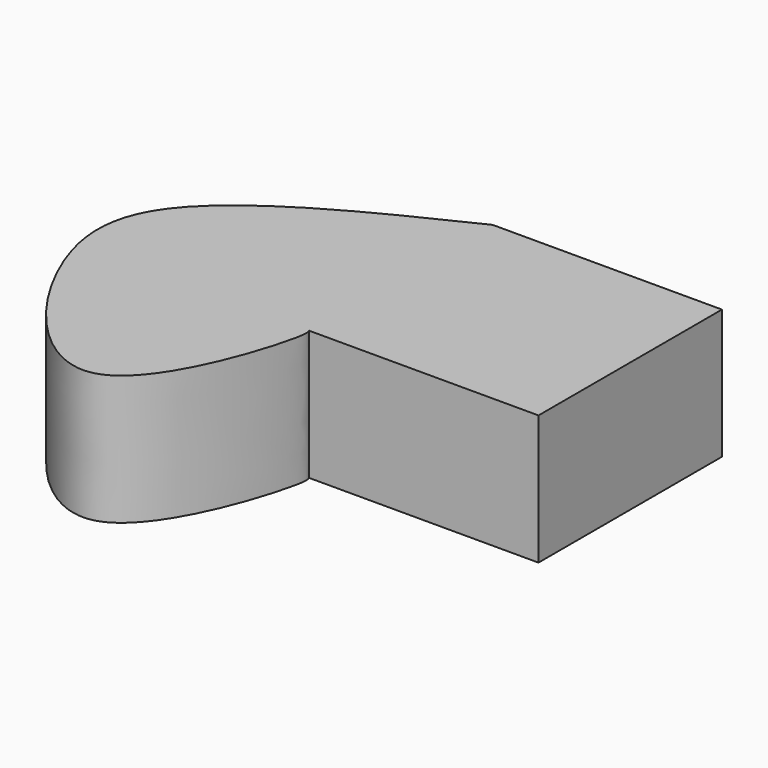
from build123d import *

# Parameters (mm, degrees)
F1_DEPTH = 25.4


with BuildPart() as f1:
    # F0 (on Top) → F1 (new body)
    with BuildSketch(Plane.XY):
        with BuildLine():
            add(Edge.make_bspline(
                [(0, 44.9314303696), (-13.9395273288, 38.2196594177), (-38.5582283902, 26.3659517015), (-53.4646951406, 1.7866835165), (-14.4290656184, -52.5995921943), (0.7194193789, -2.438342556), (0.1237199723, -0.4193265881), (0, 0)],
                knots=[0, 0, 0, 0, 0.2573110785, 0.4544389757, 0.7115619799, 0.9400947131, 1, 1, 1, 1], degree=3))
            Line((0, 0), (44.9314303696, 0))
            Line((44.9314303696, 0), (44.9314303696, 44.9314303696))
            Line((44.9314303696, 44.9314303696), (0, 44.9314303696))
        make_face()
    extrude(amount=F1_DEPTH)


solid = f1.part
